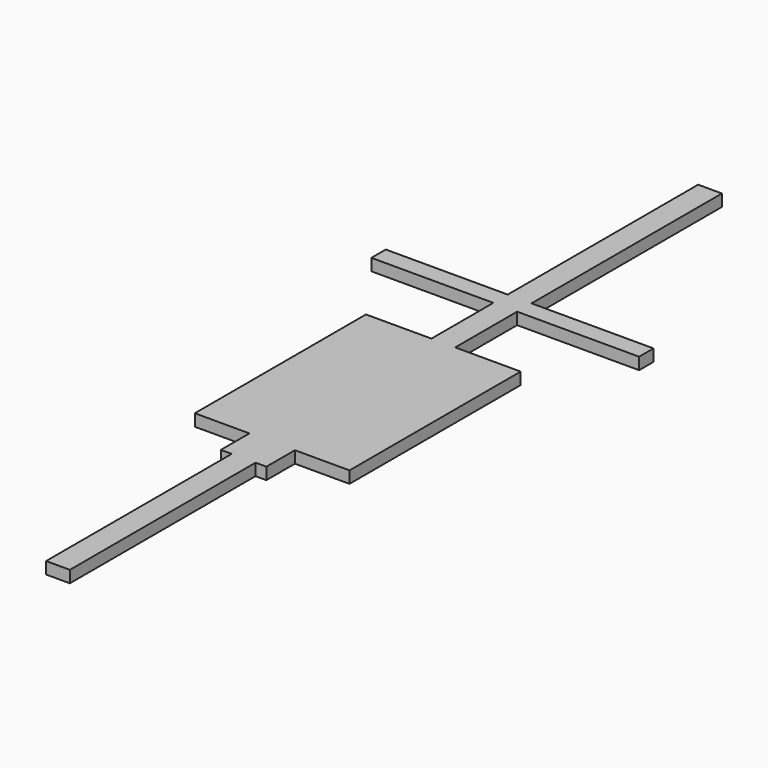
from build123d import *

# Parameters (mm, degrees)
F0_W     = 50.8
F0_H     = 495.3
F0_W_2   = 23.167712307
F0_H_2   = 76.2
F0_H_3   = 145.5220067978
F0_H_4   = 311.2254058838
F0_H_5   = 165.2207044601
F0_W_3   = 260.35
F0_H_6   = 38.4318828583
F0_H_7   = 508
F1_DEPTH = 25.4


with BuildPart() as f1:
    # F0 (on Top) → F1 (new body)
    with BuildSketch(Plane.XY):
        with Locations((0, 247.65)):
            Rectangle(F0_W, F0_H)
        with Locations((-36.9838561535, 533.4)):
            Rectangle(F0_W_2, F0_H_2)
        with Locations((0, 533.4)):
            Rectangle(F0_W, F0_H_2)
        with Locations((36.9838561535, 533.4)):
            Rectangle(F0_W_2, F0_H_2)
        with Locations((-36.9838561535, 644.2610033989)):
            Rectangle(F0_W_2, F0_H_3)
        with Locations((36.9838561535, 644.2610033989)):
            Rectangle(F0_W_2, F0_H_3)
        Polygon((-48.567712307, 717.0220067978), (-25.4, 717.0220067978), (-25.4, 1028.2474126816), (-165.1, 1028.2474126816), (-165.1, 571.5), (-48.567712307, 571.5), align=None)
        with Locations((0, 872.6347097397)):
            Rectangle(F0_W, F0_H_4)
        Polygon((25.4, 1028.2474126816), (25.4, 717.0220067978), (48.567712307, 717.0220067978), (48.567712307, 571.5), (165.1, 571.5), (165.1, 1028.2474126816), align=None)
        with Locations((0, 1110.8577649117)):
            Rectangle(F0_W, F0_H_5)
        with Locations((-155.575, 1212.6840585709)):
            Rectangle(F0_W_3, F0_H_6)
        with Locations((0, 1212.6840585709)):
            Rectangle(F0_W, F0_H_6)
        with Locations((155.575, 1212.6840585709)):
            Rectangle(F0_W_3, F0_H_6)
        with Locations((0, 1485.9)):
            Rectangle(F0_W, F0_H_7)
        with Locations((0, 644.2610033989)):
            Rectangle(F0_W, F0_H_3)
    extrude(amount=F1_DEPTH)


solid = f1.part
